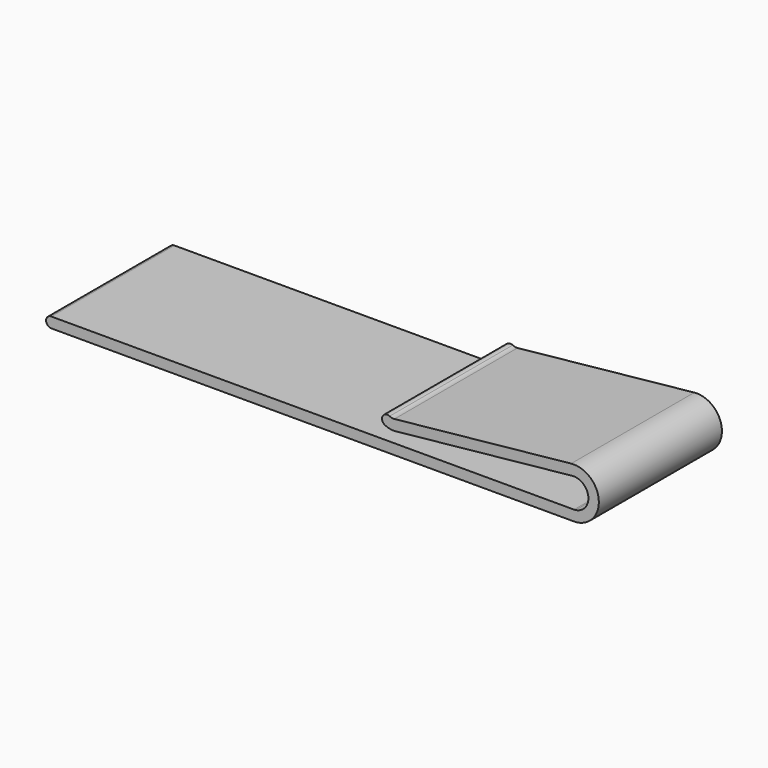
from build123d import *

# Parameters (mm, degrees)
F1_DEPTH = 25


with BuildPart() as f1:
    # F0 (on Front) → F1 (new body)
    with BuildSketch(Plane.XZ):
        with BuildLine():
            Line((45.7854280798, 23.3870821038), (-39.147809339, 23.3870821038))
            ThreePointArc((-39.147809339, 23.3870821038), (-39.9978092392, 22.5370822037), (-39.147809339, 21.6870823036))
            Line((-39.147809339, 21.6870823036), (45.7854280798, 21.6870823036))
            ThreePointArc((45.7854280798, 21.6870823036), (46.0020177098, 21.6934270774), (46.2178645223, 21.7124396389))
            ThreePointArc((46.2178645223, 21.7124396389), (49.7941822228, 26.2093447117), (45.3231656181, 29.8179752068))
            Line((45.3231656181, 29.8179752068), (16.6060594099, 26.8574478911))
            ThreePointArc((16.6060594099, 26.8574478911), (16.2045950097, 26.8748577315), (15.8251544566, 27.0071514722))
            ThreePointArc((15.8251544566, 27.0071514722), (14.6830908852, 26.6449018554), (15.037802048, 25.5004744977))
            ThreePointArc((15.037802048, 25.5004744977), (15.8845244931, 25.2052607187), (16.7803932023, 25.1664106207))
            Line((16.7803932023, 25.1664106207), (45.4974994105, 28.1269379365))
            ThreePointArc((45.4974994105, 28.1269379365), (48.1044451468, 26.0228294719), (46.0191775208, 23.4007887723))
            ThreePointArc((46.0191775208, 23.4007887723), (45.9025035618, 23.3905117115), (45.7854280798, 23.3870821038))
        make_face()
    extrude(amount=F1_DEPTH)


solid = f1.part
